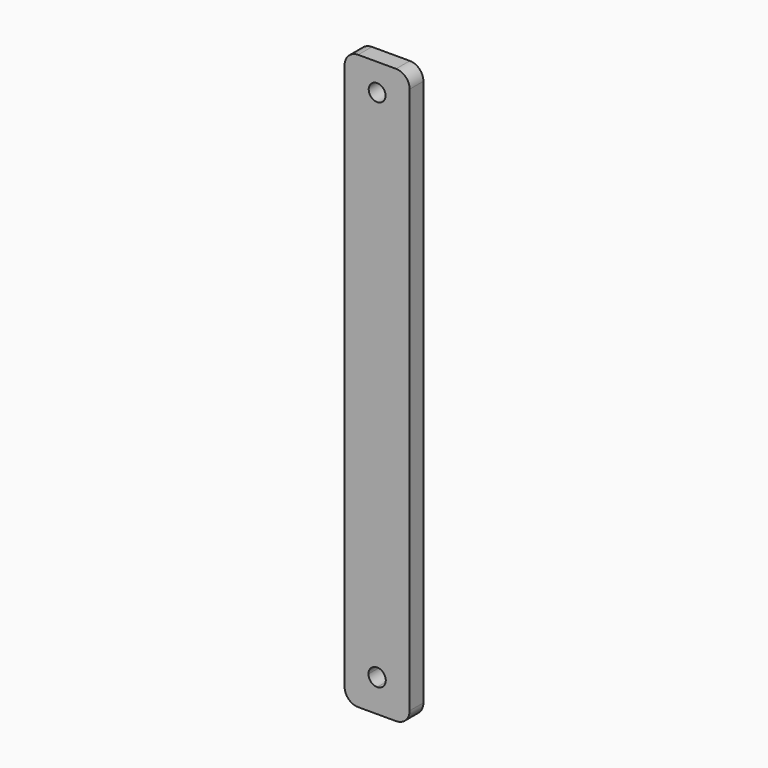
from build123d import *

# Parameters (mm, degrees)
F1_DEPTH = 6.35
F3_DEPTH = 25
F4_R     = 5


with BuildPart() as f1:
    # F0 (on Front) → F1 (new body)
    with BuildSketch(Plane.XZ):
        with BuildLine():
            Line((0, -12), (0, -3.2))
            ThreePointArc((0, -3.2), (-2.262742, -2.262742), (-3.2, 0))
            Line((-3.2, 0), (-12, 0))
            Line((-12, 0), (-12, -12))
            Line((-12, -12), (0, -12))
        make_face()
        with BuildLine():
            ThreePointArc((0, 3.2), (2.262742, 2.262742), (3.2, 0))
            ThreePointArc((3.2, 0), (2.262742, -2.262742), (0, -3.2))
            Line((0, -3.2), (0, -12))
            Line((0, -12), (12, -12))
            Line((12, -12), (12, 200))
            Line((12, 200), (0, 200))
            Line((0, 200), (0, 3.2))
        make_face()
        with BuildLine():
            ThreePointArc((-3.2, 0), (-2.262742, 2.262742), (0, 3.2))
            Line((0, 3.2), (0, 200))
            Line((0, 200), (-12, 200))
            Line((-12, 200), (-12, 0))
            Line((-12, 0), (-3.2, 0))
        make_face()
    extrude(amount=F1_DEPTH)

    # F2 (on face) → F3 (cut)
    with BuildSketch(Plane.XZ.offset(6.35)):
        with BuildLine():
            ThreePointArc((0, 193.1), (-2.192031, 187.807969), (3.1, 190))
            ThreePointArc((3.1, 190), (2.192031, 192.192031), (0, 193.1))
        make_face()
    extrude(amount=-F3_DEPTH, mode=Mode.SUBTRACT)

    # F4
    f4_edges = [f1.edges().sort_by_distance(p)[0] for p in [
        (12, -3.175, 200),
        (-12, -3.175, 200),
        (12, -3.175, -12),
        (-12, -3.175, -12),
    ]]
    fillet(f4_edges, radius=F4_R)


solid = f1.part
